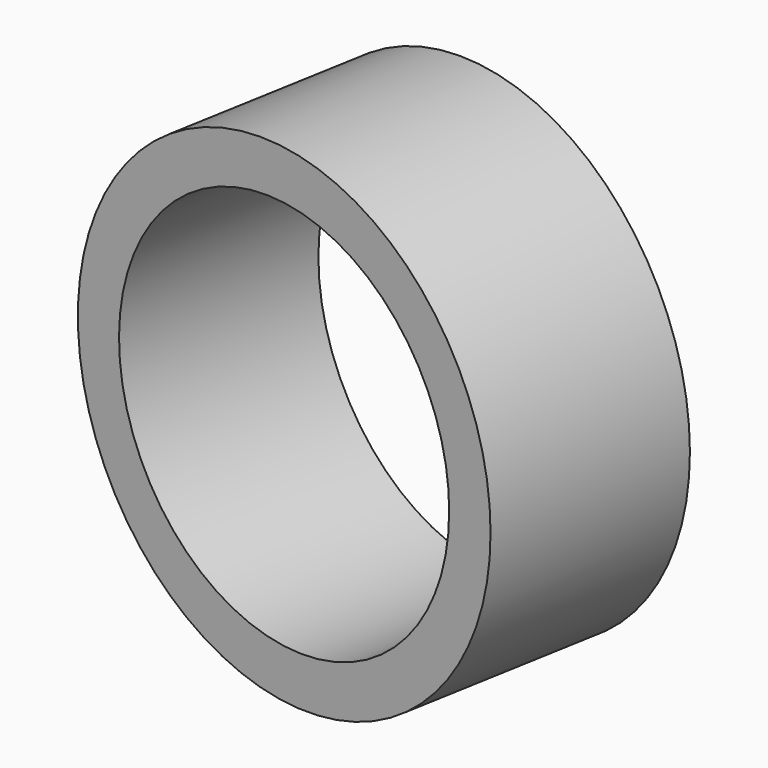
from build123d import *

# Parameters (mm, degrees)
CYLINDER063_R               = 4.8
CYLINDER063_DEPTH           = 18
CYLINDER063_ROLL_ANGLE      = -89.999776
CYLINDER063_PITCH_ANGLE     = 1.4e-05
CYLINDER063_PLACEMENT_ANGLE = -9.999925
CYLINDER062_R               = 6
CYLINDER062_DEPTH           = 5.1
CYLINDER062_ROLL_ANGLE      = -89.999807
CYLINDER062_PITCH_ANGLE     = 8e-06
CYLINDER062_PLACEMENT_ANGLE = -9.999933


with BuildPart() as cylinder063:
    # Cylinder063 → Cylinder063 (new body)
    with BuildSketch(Plane.XY):
        Circle(CYLINDER063_R)
    extrude(amount=CYLINDER063_DEPTH)


with BuildPart() as cylinder063_1:
    # Cylinder063 roll: moved
    add(cylinder063.part.rotate(Axis((0, 0, 0), (1, 0, 0)), CYLINDER063_ROLL_ANGLE))


with BuildPart() as cylinder063_2:
    # Cylinder063 pitch: moved
    add(cylinder063_1.part.rotate(Axis((0, 0, 0), (0, 1, 0)), CYLINDER063_PITCH_ANGLE))


with BuildPart() as cylinder063_3:
    # Cylinder063 placement: moved
    add(cylinder063_2.part.moved(Location((35.146424, -29.285947, 16.499989))).rotate(Axis((35.146424, -29.285947, 16.499989), (0, 0, 1)), CYLINDER063_PLACEMENT_ANGLE))


with BuildPart() as cut060:
    # Cylinder062 → Cylinder062 (new body)
    with BuildSketch(Plane.XY):
        Circle(CYLINDER062_R)
    extrude(amount=CYLINDER062_DEPTH)


with BuildPart() as cut060_1:
    # Cylinder062 roll: moved
    add(cut060.part.rotate(Axis((0, 0, 0), (1, 0, 0)), CYLINDER062_ROLL_ANGLE))


with BuildPart() as cut060_2:
    # Cylinder062 pitch: moved
    add(cut060_1.part.rotate(Axis((0, 0, 0), (0, 1, 0)), CYLINDER062_PITCH_ANGLE))


with BuildPart() as cut060_3:
    # Cylinder062 placement: moved
    add(cut060_2.part.moved(Location((37.388984, -16.585183, 16.500027))).rotate(Axis((37.388984, -16.585183, 16.500027), (0, 0, 1)), CYLINDER062_PLACEMENT_ANGLE))

    # Cut060: cut Cylinder063
    add(cylinder063_3.part, mode=Mode.SUBTRACT)


with BuildPart() as cut060_4:
    # Cut060 placement: moved
    add(cut060_3.part.moved(Location((0, -0.2, 0))))


solid = cut060_4.part
